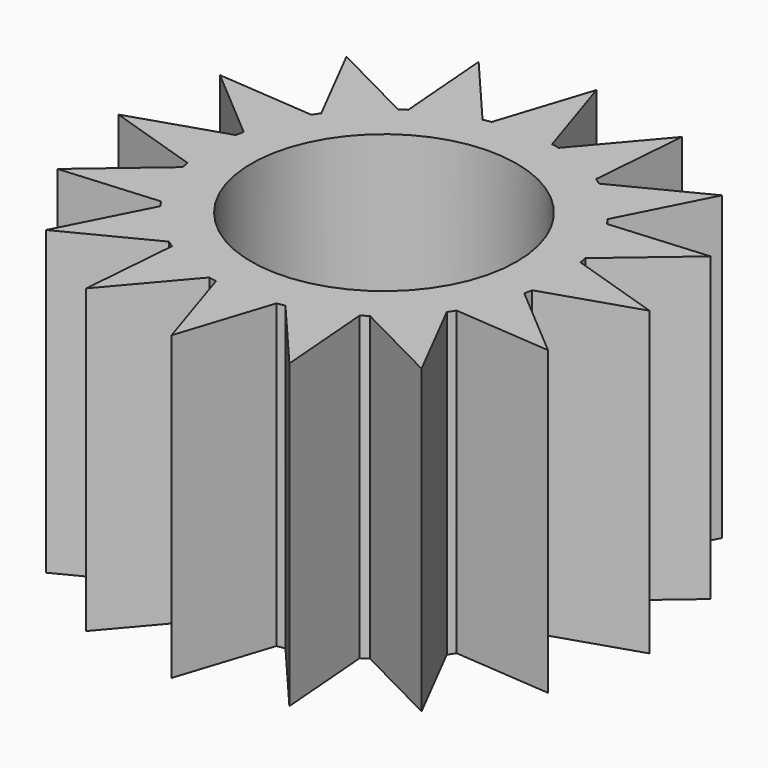
from build123d import *

# Parameters (mm, degrees)
F0_R     = 2.2
F1_DEPTH = 5


with BuildPart() as f1:
    # F0 (on Top) → F1 (new body)
    with BuildSketch(Plane.XY):
        with BuildLine():
            ThreePointArc((2.856571, -0.5), (2.889122, -0.250941), (2.9, 0))
            ThreePointArc((2.9, 0), (2.889122, 0.250941), (2.856571, 0.5))
            ThreePointArc((2.856571, 0.5), (2.844277, 0.565762), (2.83047, 0.631223))
            ThreePointArc((2.83047, 0.631223), (2.679251, 1.109782), (2.447786, 1.555102))
            ThreePointArc((2.447786, 1.555102), (2.411262, 1.611154), (2.373454, 1.666348))
            ThreePointArc((2.373454, 1.666348), (2.05061, 2.05061), (1.666348, 2.373454))
            ThreePointArc((1.666348, 2.373454), (1.611154, 2.411262), (1.555102, 2.447786))
            ThreePointArc((1.555102, 2.447786), (1.109782, 2.679251), (0.631223, 2.83047))
            ThreePointArc((0.631223, 2.83047), (0.565762, 2.844277), (0.5, 2.856571))
            ThreePointArc((0.5, 2.856571), (0, 2.9), (-0.5, 2.856571))
            ThreePointArc((-0.5, 2.856571), (-0.565762, 2.844277), (-0.631223, 2.83047))
            ThreePointArc((-0.631223, 2.83047), (-1.109782, 2.679251), (-1.555102, 2.447786))
            ThreePointArc((-1.555102, 2.447786), (-1.611154, 2.411262), (-1.666348, 2.373454))
            ThreePointArc((-1.666348, 2.373454), (-2.05061, 2.05061), (-2.373454, 1.666348))
            ThreePointArc((-2.373454, 1.666348), (-2.411262, 1.611154), (-2.447786, 1.555102))
            ThreePointArc((-2.447786, 1.555102), (-2.679251, 1.109782), (-2.83047, 0.631223))
            ThreePointArc((-2.83047, 0.631223), (-2.844277, 0.565762), (-2.856571, 0.5))
            ThreePointArc((-2.856571, 0.5), (-2.9, 0), (-2.856571, -0.5))
            ThreePointArc((-2.856571, -0.5), (-2.844277, -0.565762), (-2.83047, -0.631223))
            ThreePointArc((-2.83047, -0.631223), (-2.679251, -1.109782), (-2.447786, -1.555102))
            ThreePointArc((-2.447786, -1.555102), (-2.411262, -1.611154), (-2.373454, -1.666348))
            ThreePointArc((-2.373454, -1.666348), (-2.05061, -2.05061), (-1.666348, -2.373454))
            ThreePointArc((-1.666348, -2.373454), (-1.611154, -2.411262), (-1.555102, -2.447786))
            ThreePointArc((-1.555102, -2.447786), (-1.109782, -2.679251), (-0.631223, -2.83047))
            ThreePointArc((-0.631223, -2.83047), (-0.565762, -2.844277), (-0.5, -2.856571))
            ThreePointArc((-0.5, -2.856571), (0, -2.9), (0.5, -2.856571))
            ThreePointArc((0.5, -2.856571), (0.565762, -2.844277), (0.631223, -2.83047))
            ThreePointArc((0.631223, -2.83047), (1.109782, -2.679251), (1.555102, -2.447786))
            ThreePointArc((1.555102, -2.447786), (1.611154, -2.411262), (1.666348, -2.373454))
            ThreePointArc((1.666348, -2.373454), (2.05061, -2.05061), (2.373454, -1.666348))
            ThreePointArc((2.373454, -1.666348), (2.411262, -1.611154), (2.447786, -1.555102))
            ThreePointArc((2.447786, -1.555102), (2.679251, -1.109782), (2.83047, -0.631223))
            ThreePointArc((2.83047, -0.631223), (2.844277, -0.565762), (2.856571, -0.5))
        make_face()
        Circle(F0_R, mode=Mode.SUBTRACT)
        with BuildLine():
            ThreePointArc((-0.5, 2.856571), (0, 2.9), (0.5, 2.856571))
            Line((0.5, 2.856571), (0, 4.4))
            Line((0, 4.4), (-0.5, 2.856571))
        make_face()
        with BuildLine():
            ThreePointArc((0.631223, 2.83047), (1.109782, 2.679251), (1.555102, 2.447786))
            Line((1.555102, 2.447786), (1.683807, 4.06507))
            Line((1.683807, 4.06507), (0.631223, 2.83047))
        make_face()
        with BuildLine():
            ThreePointArc((1.666348, 2.373454), (2.05061, 2.05061), (2.373454, 1.666348))
            Line((2.373454, 1.666348), (3.11127, 3.11127))
            Line((3.11127, 3.11127), (1.666348, 2.373454))
        make_face()
        with BuildLine():
            ThreePointArc((2.447786, 1.555102), (2.679251, 1.109782), (2.83047, 0.631223))
            Line((2.83047, 0.631223), (4.06507, 1.683807))
            Line((4.06507, 1.683807), (2.447786, 1.555102))
        make_face()
        with BuildLine():
            ThreePointArc((2.856571, 0.5), (2.889122, 0.250941), (2.9, 0))
            ThreePointArc((2.9, 0), (2.889122, -0.250941), (2.856571, -0.5))
            Line((2.856571, -0.5), (4.4, 0))
            Line((4.4, 0), (2.856571, 0.5))
        make_face()
        with BuildLine():
            Line((4.06507, -1.683807), (2.83047, -0.631223))
            ThreePointArc((2.83047, -0.631223), (2.679251, -1.109782), (2.447786, -1.555102))
            Line((2.447786, -1.555102), (4.06507, -1.683807))
        make_face()
        with BuildLine():
            Line((3.11127, -3.11127), (2.373454, -1.666348))
            ThreePointArc((2.373454, -1.666348), (2.05061, -2.05061), (1.666348, -2.373454))
            Line((1.666348, -2.373454), (3.11127, -3.11127))
        make_face()
        with BuildLine():
            Line((1.683807, -4.06507), (1.555102, -2.447786))
            ThreePointArc((1.555102, -2.447786), (1.109782, -2.679251), (0.631223, -2.83047))
            Line((0.631223, -2.83047), (1.683807, -4.06507))
        make_face()
        with BuildLine():
            Line((0, -4.4), (0.5, -2.856571))
            ThreePointArc((0.5, -2.856571), (0, -2.9), (-0.5, -2.856571))
            Line((-0.5, -2.856571), (0, -4.4))
        make_face()
        with BuildLine():
            Line((-1.683807, -4.06507), (-0.631223, -2.83047))
            ThreePointArc((-0.631223, -2.83047), (-1.109782, -2.679251), (-1.555102, -2.447786))
            Line((-1.555102, -2.447786), (-1.683807, -4.06507))
        make_face()
        with BuildLine():
            Line((-3.11127, -3.11127), (-1.666348, -2.373454))
            ThreePointArc((-1.666348, -2.373454), (-2.05061, -2.05061), (-2.373454, -1.666348))
            Line((-2.373454, -1.666348), (-3.11127, -3.11127))
        make_face()
        with BuildLine():
            Line((-4.06507, -1.683807), (-2.447786, -1.555102))
            ThreePointArc((-2.447786, -1.555102), (-2.679251, -1.109782), (-2.83047, -0.631223))
            Line((-2.83047, -0.631223), (-4.06507, -1.683807))
        make_face()
        with BuildLine():
            ThreePointArc((-2.83047, 0.631223), (-2.679251, 1.109782), (-2.447786, 1.555102))
            Line((-2.447786, 1.555102), (-4.06507, 1.683807))
            Line((-4.06507, 1.683807), (-2.83047, 0.631223))
        make_face()
        with BuildLine():
            ThreePointArc((-2.373454, 1.666348), (-2.05061, 2.05061), (-1.666348, 2.373454))
            Line((-1.666348, 2.373454), (-3.11127, 3.11127))
            Line((-3.11127, 3.11127), (-2.373454, 1.666348))
        make_face()
        with BuildLine():
            ThreePointArc((-2.856571, -0.5), (-2.9, 0), (-2.856571, 0.5))
            Line((-2.856571, 0.5), (-4.4, 0))
            Line((-4.4, 0), (-2.856571, -0.5))
        make_face()
        with BuildLine():
            ThreePointArc((-1.555102, 2.447786), (-1.109782, 2.679251), (-0.631223, 2.83047))
            Line((-0.631223, 2.83047), (-1.683807, 4.06507))
            Line((-1.683807, 4.06507), (-1.555102, 2.447786))
        make_face()
    extrude(amount=F1_DEPTH)


solid = f1.part
